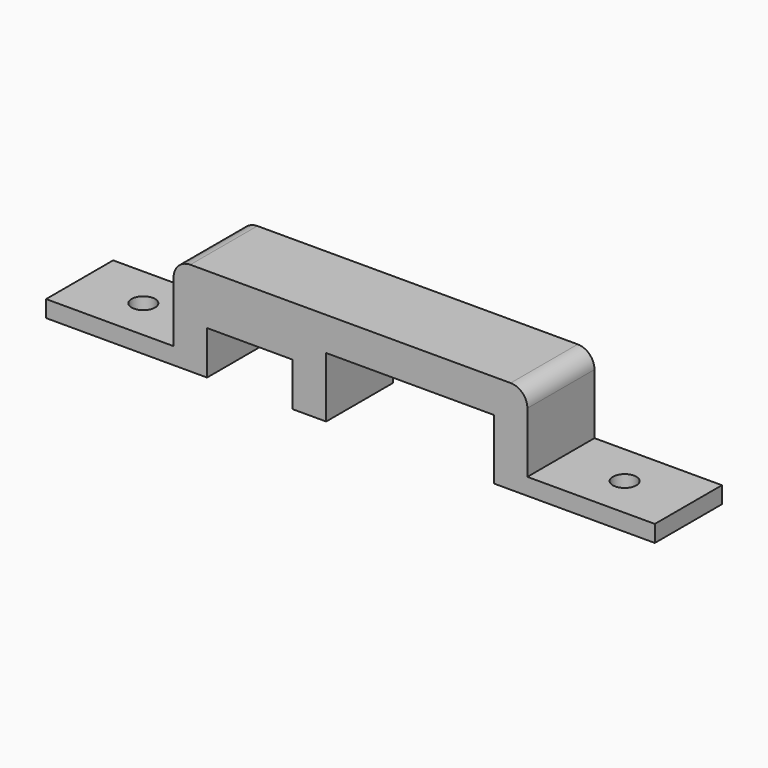
from build123d import *

# Parameters (mm, degrees)
F1_DEPTH = 6.35
F2_R     = 0.889
F3_DEPTH = 1.27


with BuildPart() as f1:
    # F0 (on Front) → F1 (new body)
    with BuildSketch(Plane.XZ):
        with BuildLine():
            Line((15.279732, 4.572), (15.279732, 0))
            Line((15.279732, 0), (17.819732, 0))
            Line((17.819732, 0), (27.471732, 0))
            Line((27.471732, 0), (27.471732, 1.27))
            Line((27.471732, 1.27), (17.819732, 1.27))
            Line((17.819732, 1.27), (17.819732, 5.842))
            ThreePointArc((17.819732, 5.842), (17.447758, 6.740026), (16.549732, 7.112))
            Line((16.549732, 7.112), (-7.707268, 7.112))
            ThreePointArc((-7.707268, 7.112), (-8.605294, 6.740026), (-8.977268, 5.842))
            Line((-8.977268, 5.842), (-8.977268, 1.27))
            Line((-8.977268, 1.27), (-18.629268, 1.27))
            Line((-18.629268, 1.27), (-18.629268, 0))
            Line((-18.629268, 0), (-6.437268, 0))
            Line((-6.437268, 0), (-6.437268, 3.302))
            Line((-6.437268, 3.302), (0.039732, 3.302))
            Line((0.039732, 3.302), (0.039732, 0))
            Line((0.039732, 0), (2.579732, 0))
            Line((2.579732, 0), (2.579732, 4.572))
            Line((2.579732, 4.572), (15.279732, 4.572))
        make_face()
    extrude(amount=F1_DEPTH)

    # F2 (on face) → F3 (cut, through all)
    with BuildSketch(Plane.XY.offset(1.27)):
        with Locations((-13.803268, -3.175)):
            Circle(F2_R)
        with Locations((22.645732, -3.175)):
            Circle(F2_R)
    extrude(amount=-F3_DEPTH, mode=Mode.SUBTRACT)


solid = f1.part
